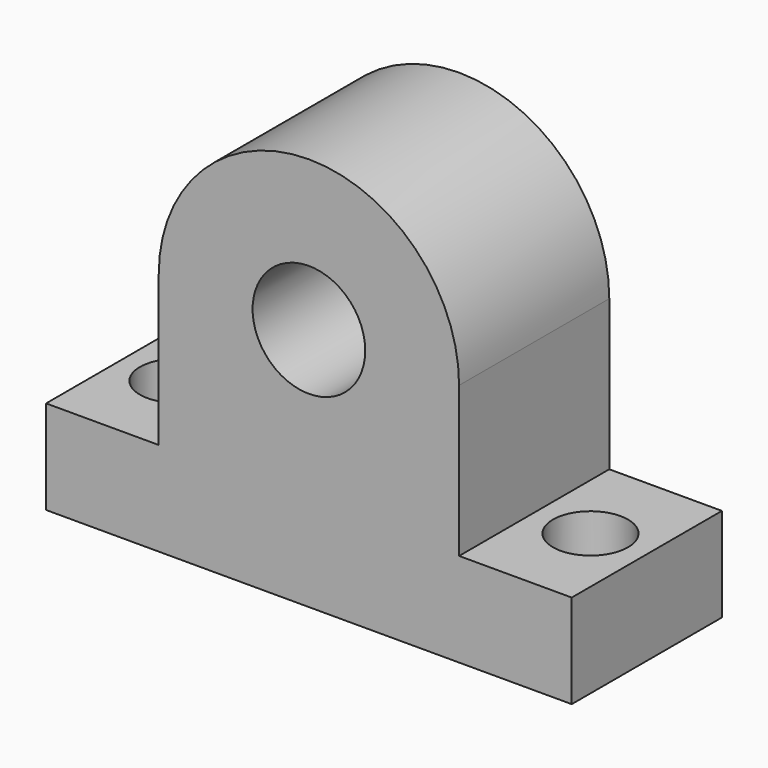
from build123d import *

# Parameters (mm, degrees)
F1_DEPTH = 50
F2_R     = 15
F3_DEPTH = 50
F4_R     = 10
F5_DEPTH = 25
F6_R     = 10
F7_DEPTH = 25


with BuildPart() as f1:
    # F0 (on Front) → F1 (new body)
    with BuildSketch(Plane.XZ):
        with BuildLine():
            Line((-73.879311, 6.961207), (-73.879311, -18.038793))
            Line((-73.879311, -18.038793), (66.120689, -18.038793))
            Line((66.120689, -18.038793), (66.120689, 6.961207))
            Line((66.120689, 6.961207), (36.120689, 6.961207))
            Line((36.120689, 6.961207), (36.120689, 46.961207))
            ThreePointArc((36.120689, 46.961207), (-3.879311, 86.961207), (-43.879311, 46.961207))
            Line((-43.879311, 46.961207), (-43.879311, 6.961207))
            Line((-43.879311, 6.961207), (-73.879311, 6.961207))
        make_face()
    extrude(amount=F1_DEPTH)

    # F2 (on face) → F3 (cut)
    with BuildSketch(Plane.XZ.offset(50)):
        with Locations((-3.879311, 46.961207)):
            Circle(F2_R)
    extrude(amount=-F3_DEPTH, mode=Mode.SUBTRACT)

    # F4 (on face) → F5 (cut)
    with BuildSketch(Plane.XY.offset(6.961207)):
        with Locations((-58.879311, -25)):
            Circle(F4_R)
    extrude(amount=-F5_DEPTH, mode=Mode.SUBTRACT)

    # F6 (on face) → F7 (cut)
    with BuildSketch(Plane.XY.offset(6.961207)):
        with Locations((51.120689, -25)):
            Circle(F6_R)
    extrude(amount=-F7_DEPTH, mode=Mode.SUBTRACT)


solid = f1.part
